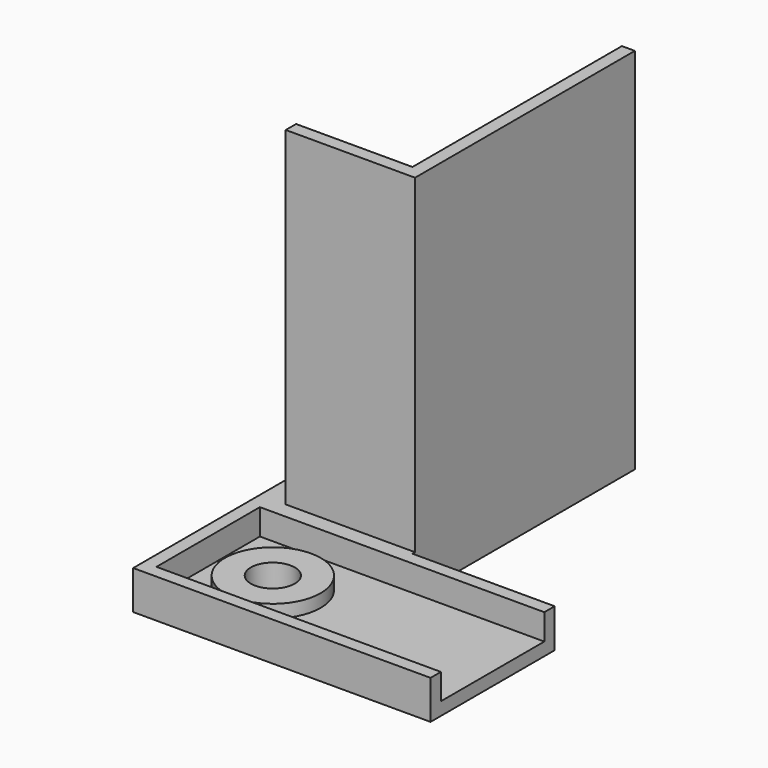
from build123d import *

# Parameters (mm, degrees)
SKETCH006_R      = 1.7
EXTRUDE004_DEPTH = 1
EXTRUDE005_DEPTH = 2
SKETCH017_R      = 3.7
SKETCH017_R_2    = 1.7
EXTRUDE014_DEPTH = 1
EXTRUDE003_DEPTH = 27.5


with BuildPart() as extrude004:
    # Sketch006 → Extrude004 (new body)
    with BuildSketch(Plane.XY.offset(10)):
        Polygon((-11, 0), (0, 0), (0, 12), (-23, 12), (-23, -21.5), (-11, -21.5), align=None)
        with Locations((-17, 6)):
            Circle(SKETCH006_R, mode=Mode.SUBTRACT)
    extrude(amount=EXTRUDE004_DEPTH)


with BuildPart() as extrude004_1:
    # Extrude004 placement: moved
    add(extrude004.part.moved(Location((0, 0, -36.5))))


with BuildPart() as extrude005:
    # Sketch007 → Extrude005 (new body)
    with BuildSketch(Plane.XY.offset(10)):
        Polygon((0, 12), (-23, 12), (-23, -21.5), (-22, -21.5), (-22, -2.25), (-13, -2.25), (-13, -21.5), (-11, -21.5), (-11, 0), (0, 0), (0, 1), (-22, 1), (-22, 11), (0, 11), align=None)
    extrude(amount=EXTRUDE005_DEPTH)


with BuildPart() as extrude005_1:
    # Extrude005 placement: moved
    add(extrude005.part.moved(Location((0, 0, -35.5))))


with BuildPart() as extrude014:
    # Sketch017 → Extrude014 (new body)
    with BuildSketch(Plane.XY.offset(10)):
        with Locations((-17, 6)):
            Circle(SKETCH017_R)
        with Locations((-17, 6)):
            Circle(SKETCH017_R_2, mode=Mode.SUBTRACT)
    extrude(amount=EXTRUDE014_DEPTH)


with BuildPart() as extrude014_1:
    # Extrude014 placement: moved
    add(extrude014.part.moved(Location((0, 0, -35.5))))


with BuildPart() as body006:
    # Sketch003 → Extrude003 (new body)
    with BuildSketch(Plane.XY):
        Polygon((-21, -0.25), (-11, -0.25), (-11, -21.5), (-12, -21.5), (-12, -1.25), (-21, -1.25), align=None)
    extrude(amount=-EXTRUDE003_DEPTH)


with BuildPart() as body006_1:
    # Extrude003 placement: moved
    add(body006.part.moved(Location((0, 0, 2))))

    # Fusion013: union Extrude004, Extrude005, Extrude014
    add(extrude004_1.part)
    add(extrude005_1.part)
    add(extrude014_1.part)


with BuildPart() as part_mirroring007:
    # Part__Mirroring007: instance of Body006
    add(body006_1.part.mirror(Plane(origin=(0, -21.5, 0), x_dir=(1, 0, 0), z_dir=(0, 1, 0))))


solid = part_mirroring007.part
